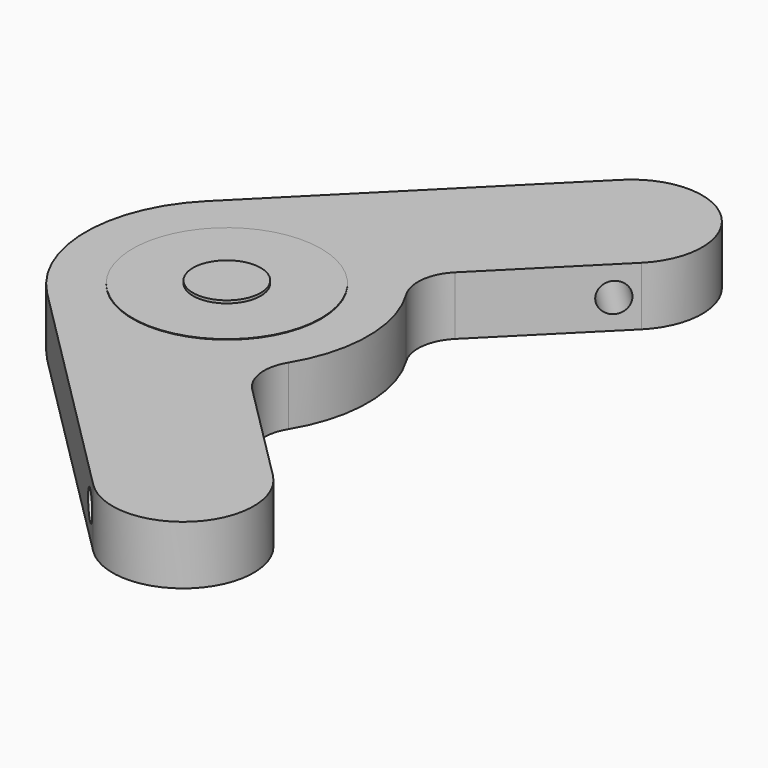
from build123d import *

# Parameters (mm, degrees)
F0_R     = 11.0236
F0_R_2   = 3.9624
F1_DEPTH = 3.4925
F2_R     = 11.0236
F3_DEPTH = 3.429
F4_R     = 5.08
F5_R     = 1.7145
F6_DEPTH = 40.6899994361
F8_R     = 3.9624
F9_DEPTH = 3.81


with BuildPart() as f1:
    # F0 (on Top) → F1 (new body, symmetric)
    with BuildSketch(Plane.XY):
        Circle(F0_R)
        Circle(F0_R_2, mode=Mode.SUBTRACT)
    extrude(amount=F1_DEPTH, both=True)


with BuildPart() as f3:
    # F2 (on Top) → F3 (new body, symmetric)
    with BuildSketch(Plane.XY):
        with BuildLine():
            Line((15.2664354058, 38.6151013206), (-11.6743329574, 11.6743329574))
            ThreePointArc((-11.6743329574, 11.6743329574), (0, -16.51), (11.6743329574, 11.6743329574))
            Line((11.6743329574, 11.6743329574), (26.9407683632, 26.9407683632))
            ThreePointArc((26.9407683632, 26.9407683632), (26.9407683632, 38.6151013206), (15.2664354058, 38.6151013206))
        make_face()
        Circle(F2_R, mode=Mode.SUBTRACT)
    extrude(amount=F3_DEPTH, both=True)

    # F4
    f4_edges = [f3.edges().sort_by_distance(p)[0] for p in [
        (11.674333, 11.674333, 0),
    ]]
    fillet(f4_edges, radius=F4_R)

    # F5 (on face) → F6 (cut, through all)
    with BuildSketch(Plane(origin=(0, 0, 0), x_dir=(0.7071067812, 0.7071067812, 0), z_dir=(0.7071067812, -0.7071067812, 0))):
        with Locations((35.56, 0)):
            Circle(F5_R)
    extrude(amount=-F6_DEPTH, mode=Mode.SUBTRACT)

    # F7: F3 across plane


with BuildPart() as f3_1:
    add(f3.part)
    add(f3.part.mirror(Plane.XZ))


with BuildPart() as f9:
    # F8 (on Top) → F9 (new body, symmetric)
    with BuildSketch(Plane.XY):
        Circle(F8_R)
    extrude(amount=F9_DEPTH, both=True)


solid = Compound([f1.part, f3_1.part, f9.part])
